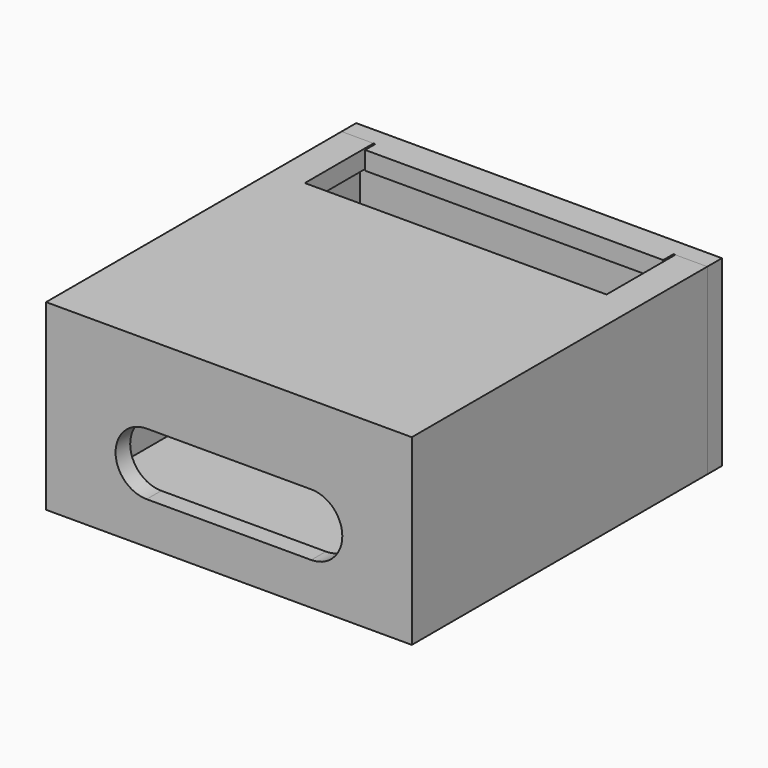
from build123d import *

# Parameters (mm, degrees)
SKETCH_W      = 20
SKETCH_H      = 10
PAD_DEPTH     = 1
SKETCH001_W   = 20
SKETCH001_H   = 10
SKETCH001_W_2 = 18
SKETCH001_H_2 = 8
PAD001_DEPTH  = 19.2
SKETCH002_W   = 16.5
SKETCH002_H   = 4.7
POCKET_DEPTH  = 1
SKETCH003_W   = 20
SKETCH003_H   = 10
PAD002_DEPTH  = 1
SKETCH004_W   = 16.3
SKETCH004_H   = 1
PAD003_DEPTH  = 0.7


with BuildPart() as main:
    # Sketch → Pad (new body)
    with BuildSketch(Plane.XZ):
        with Locations((0, 1)):
            Rectangle(SKETCH_W, SKETCH_H)
        with BuildLine():
            ThreePointArc((-4.5, 1.7), (-6.2, 0), (-4.5, -1.7))
            Line((-4.5, -1.7), (4.5, -1.7))
            ThreePointArc((4.5, -1.7), (6.2, 0), (4.5, 1.7))
            Line((-4.5, 1.7), (4.5, 1.7))
        make_face(mode=Mode.SUBTRACT)
    extrude(amount=PAD_DEPTH)

    # Sketch001 (on Face9 of Pad) → Pad001 (join)
    with BuildSketch(Plane(origin=(0, 0, 0), x_dir=(1, 0, 0), z_dir=(0, 1, 0))):
        with Locations((0, -1)):
            Rectangle(SKETCH001_W, SKETCH001_H)
        with Locations((0, -1)):
            Rectangle(SKETCH001_W_2, SKETCH001_H_2, mode=Mode.SUBTRACT)
    extrude(amount=PAD001_DEPTH)

    # Sketch002 (on Face4 of Pad001) → Pocket (cut)
    with BuildSketch(Plane(origin=(0, 0, 6), x_dir=(-1, 0, 0), z_dir=(0, 0, 1))):
        with Locations((0, -16.85)):
            Rectangle(SKETCH002_W, SKETCH002_H)
    extrude(amount=-POCKET_DEPTH, mode=Mode.SUBTRACT)


with BuildPart() as lid:
    # Sketch003 (on Face1 of ReferencePocket) → Pad002 (new body)
    with BuildSketch(Plane(origin=(0, 19.2, 0), x_dir=(1, 0, 0), z_dir=(0, 1, 0))):
        with Locations((0, -1)):
            Rectangle(SKETCH003_W, SKETCH003_H)
    extrude(amount=PAD002_DEPTH)

    # Sketch004 (on Face5 of Pad002) → Pad003 (join)
    with BuildSketch(Plane.XZ.offset(-19.2)):
        with Locations((0, 5.5)):
            Rectangle(SKETCH004_W, SKETCH004_H)
    extrude(amount=PAD003_DEPTH)


solid = Compound([main.part, lid.part])
